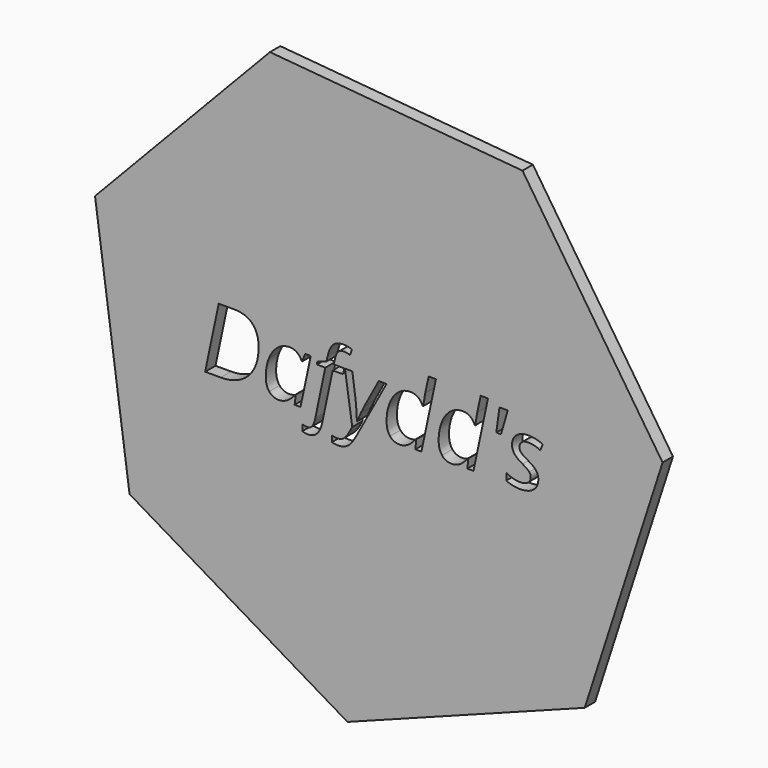
from build123d import *

# Parameters (mm, degrees)
F1_DEPTH = 2


with BuildPart() as f1:
    # F0 (on Front) → F1 (new body)
    with BuildSketch(Plane.XZ):
        Polygon((-34.200053055, -12.194702045), (2.3327218933, 1.5974209622), (14.3274185301, 38.7591425997), (-7.2482143594, 71.3069285135), (-46.1472851467, 74.7316320566), (-73.0780001325, 46.4543816099), (-67.760981646, 7.7685235105), align=None)
        with BuildLine():
            Line((-33.4658228854, 28.0283096267), (-34.5921249688, 35.5825630989))
            Line((-34.5921249688, 35.5825630989), (-33.4528020521, 35.5825630989))
            Line((-33.4528020521, 35.5825630989), (-32.9493298299, 31.8868165712))
            add(Edge.make_bspline(
                [(-32.9493298299, 31.8868165712), (-32.8820555243, 31.4180665712), (-32.8180364271, 30.5066082378)],
                knots=[0, 0, 0, 1, 1, 1], degree=2))
            add(Edge.make_bspline(
                [(-32.8180364271, 30.5066082378), (-32.7540173299, 29.5951499045), (-32.7540173299, 29.03742421)],
                knots=[0, 0, 0, 1, 1, 1], degree=2))
            Line((-32.7540173299, 29.03742421), (-32.712784691, 29.03742421))
            add(Edge.make_bspline(
                [(-32.712784691, 29.03742421), (-32.4762395521, 29.6277019878), (-32.1235919827, 30.394846085)],
                knots=[0, 0, 0, 1, 1, 1], degree=2))
            add(Edge.make_bspline(
                [(-32.1235919827, 30.394846085), (-31.7709444132, 31.1619901823), (-31.6016735799, 31.4527887934)],
                knots=[0, 0, 0, 1, 1, 1], degree=2))
            Line((-31.6016735799, 31.4527887934), (-29.3968124688, 35.5825630989))
            Line((-29.3968124688, 35.5825630989), (-28.1902152465, 35.5825630989))
            Line((-28.1902152465, 35.5825630989), (-32.9102673299, 26.88898671))
            add(Edge.make_bspline(
                [(-32.9102673299, 26.88898671), (-33.5396076077, 25.7214519878), (-34.1570121215, 25.2668078906)],
                knots=[0, 0, 0, 1, 1, 1], degree=2))
            add(Edge.make_bspline(
                [(-34.1570121215, 25.2668078906), (-34.7744166354, 24.8121637934), (-35.642472191, 24.8121637934)],
                knots=[0, 0, 0, 1, 1, 1], degree=2))
            add(Edge.make_bspline(
                [(-35.642472191, 24.8121637934), (-36.130753441, 24.8121637934), (-36.5929930243, 24.95539296)],
                knots=[0, 0, 0, 1, 1, 1], degree=2))
            Line((-36.5929930243, 24.95539296), (-36.5929930243, 25.8711915712))
            add(Edge.make_bspline(
                [(-36.5929930243, 25.8711915712), (-36.1654756632, 25.7496637934), (-35.7032360799, 25.7496637934)],
                knots=[0, 0, 0, 1, 1, 1], degree=2))
            add(Edge.make_bspline(
                [(-35.7032360799, 25.7496637934), (-35.1476805243, 25.7496637934), (-34.7505451077, 26.0914606684)],
                knots=[0, 0, 0, 1, 1, 1], degree=2))
            add(Edge.make_bspline(
                [(-34.7505451077, 26.0914606684), (-34.353409691, 26.4332575434), (-33.9801458021, 27.1060005989)],
                knots=[0, 0, 0, 1, 1, 1], degree=2))
            Line((-33.9801458021, 27.1060005989), (-33.4658228854, 28.0283096267))
        make_face(mode=Mode.SUBTRACT)
        with BuildLine():
            add(Edge.make_bspline(
                [(-48.8575329549, 37.0506620573), (-47.8842256632, 36.0361221267), (-47.8842256632, 34.0981880989)],
                knots=[0, 0, 0, 1, 1, 1], degree=2))
            add(Edge.make_bspline(
                [(-47.8842256632, 34.0981880989), (-47.8842256632, 32.3273547656), (-48.5971162882, 30.97101796)],
                knots=[0, 0, 0, 1, 1, 1], degree=2))
            add(Edge.make_bspline(
                [(-48.5971162882, 30.97101796), (-49.3100069132, 29.6146811545), (-50.6316214965, 28.8822592795)],
                knots=[0, 0, 0, 1, 1, 1], degree=2))
            add(Edge.make_bspline(
                [(-50.6316214965, 28.8822592795), (-51.9532360799, 28.1498374045), (-53.7305798299, 28.1498374045)],
                knots=[0, 0, 0, 1, 1, 1], degree=2))
            Line((-53.7305798299, 28.1498374045), (-56.1177326077, 28.1498374045))
            Line((-56.1177326077, 28.1498374045), (-54.0235485799, 38.0652019878))
            Line((-54.0235485799, 38.0652019878), (-51.7036701077, 38.0652019878))
            add(Edge.make_bspline(
                [(-51.7036701077, 38.0652019878), (-49.8308402465, 38.0652019878), (-48.8575329549, 37.0506620573)],
                knots=[0, 0, 0, 1, 1, 1], degree=2))
        make_face(mode=Mode.SUBTRACT)
        with BuildLine():
            add(Edge.make_bspline(
                [(-44.9751544827, 35.03351796), (-44.1277152465, 35.7192818489), (-43.1164305243, 35.7192818489)],
                knots=[0, 0, 0, 1, 1, 1], degree=2))
            add(Edge.make_bspline(
                [(-43.1164305243, 35.7192818489), (-42.4936006632, 35.7192818489), (-42.0053194132, 35.3829103212)],
                knots=[0, 0, 0, 1, 1, 1], degree=2))
            add(Edge.make_bspline(
                [(-42.0053194132, 35.3829103212), (-41.5170381632, 35.0465387934), (-41.2457708021, 34.4171985156)],
                knots=[0, 0, 0, 1, 1, 1], degree=2))
            Line((-41.2457708021, 34.4171985156), (-41.169815941, 34.4171985156))
            Line((-41.169815941, 34.4171985156), (-40.7162569132, 35.5825630989))
            Line((-40.7162569132, 35.5825630989), (-39.8547117743, 35.5825630989))
            Line((-39.8547117743, 35.5825630989), (-41.4345728854, 28.1498374045))
            Line((-41.4345728854, 28.1498374045), (-42.3373506632, 28.1498374045))
            Line((-42.3373506632, 28.1498374045), (-42.1593992743, 29.5669380989))
            Line((-42.1593992743, 29.5669380989), (-42.2136527465, 29.5669380989))
            add(Edge.make_bspline(
                [(-42.2136527465, 29.5669380989), (-43.4289305243, 28.0131186545), (-44.7722464965, 28.0131186545)],
                knots=[0, 0, 0, 1, 1, 1], degree=2))
            add(Edge.make_bspline(
                [(-44.7722464965, 28.0131186545), (-45.7140867743, 28.0131186545), (-46.2501110799, 28.6847766406)],
                knots=[0, 0, 0, 1, 1, 1], degree=2))
            add(Edge.make_bspline(
                [(-46.2501110799, 28.6847766406), (-46.7861353854, 29.3564346267), (-46.7861353854, 30.5239693489)],
                knots=[0, 0, 0, 1, 1, 1], degree=2))
            add(Edge.make_bspline(
                [(-46.7861353854, 30.5239693489), (-46.7861353854, 31.9345596267), (-46.3043645521, 33.1411568489)],
                knots=[0, 0, 0, 1, 1, 1], degree=2))
            add(Edge.make_bspline(
                [(-46.3043645521, 33.1411568489), (-45.8225937188, 34.3477540712), (-44.9751544827, 35.03351796)],
                knots=[0, 0, 0, 1, 1, 1], degree=2))
        make_face(mode=Mode.SUBTRACT)
        with BuildLine():
            add(Edge.make_bspline(
                [(-38.8629583021, 25.4024415712), (-39.412003441, 24.8121637934), (-40.3082708021, 24.8121637934)],
                knots=[0, 0, 0, 1, 1, 1], degree=2))
            add(Edge.make_bspline(
                [(-40.3082708021, 24.8121637934), (-40.7770208021, 24.8121637934), (-41.1567951077, 24.95539296)],
                knots=[0, 0, 0, 1, 1, 1], degree=2))
            Line((-41.1567951077, 24.95539296), (-41.1567951077, 25.91242421))
            add(Edge.make_bspline(
                [(-41.1567951077, 25.91242421), (-40.7227673299, 25.7626846267), (-40.3972464965, 25.7626846267)],
                knots=[0, 0, 0, 1, 1, 1], degree=2))
            add(Edge.make_bspline(
                [(-40.3972464965, 25.7626846267), (-39.880753441, 25.7626846267), (-39.6029756632, 26.1826065017)],
                knots=[0, 0, 0, 1, 1, 1], degree=2))
            add(Edge.make_bspline(
                [(-39.6029756632, 26.1826065017), (-39.3251978854, 26.6025283767), (-39.1559270521, 27.3837783767)],
                knots=[0, 0, 0, 1, 1, 1], degree=2))
            Line((-39.1559270521, 27.3837783767), (-37.615128441, 34.72101796))
            Line((-37.615128441, 34.72101796), (-38.923722191, 34.72101796))
            Line((-38.923722191, 34.72101796), (-38.8369166354, 35.1767471267))
            Line((-38.8369166354, 35.1767471267), (-37.439347191, 35.6237957378))
            Line((-37.439347191, 35.6237957378), (-37.283097191, 36.3008790712))
            add(Edge.make_bspline(
                [(-37.283097191, 36.3008790712), (-36.970597191, 37.6572158767), (-36.4182968438, 38.21711171)],
                knots=[0, 0, 0, 1, 1, 1], degree=2))
            add(Edge.make_bspline(
                [(-36.4182968438, 38.21711171), (-35.8659964965, 38.7770075434), (-34.7809270521, 38.7770075434)],
                knots=[0, 0, 0, 1, 1, 1], degree=2))
            add(Edge.make_bspline(
                [(-34.7809270521, 38.7770075434), (-34.509659691, 38.7770075434), (-34.1168645521, 38.6988825434)],
                knots=[0, 0, 0, 1, 1, 1], degree=2))
            add(Edge.make_bspline(
                [(-34.1168645521, 38.6988825434), (-33.7240694132, 38.6207575434), (-33.5070555243, 38.5252714323)],
                knots=[0, 0, 0, 1, 1, 1], degree=2))
            Line((-33.5070555243, 38.5252714323), (-33.7978541354, 37.65070546))
            add(Edge.make_bspline(
                [(-33.7978541354, 37.65070546), (-34.3121770521, 37.8481880989), (-34.7266735799, 37.8481880989)],
                knots=[0, 0, 0, 1, 1, 1], degree=2))
            add(Edge.make_bspline(
                [(-34.7266735799, 37.8481880989), (-35.3169513577, 37.8481880989), (-35.632706566, 37.5194120573)],
                knots=[0, 0, 0, 1, 1, 1], degree=2))
            add(Edge.make_bspline(
                [(-35.632706566, 37.5194120573), (-35.9484617743, 37.1906360156), (-36.1437742743, 36.3160700434)],
                knots=[0, 0, 0, 1, 1, 1], degree=2))
            Line((-36.1437742743, 36.3160700434), (-36.3130451077, 35.5825630989))
            Line((-36.3130451077, 35.5825630989), (-34.7006319132, 35.5825630989))
            Line((-34.7006319132, 35.5825630989), (-34.8699027465, 34.72101796))
            Line((-34.8699027465, 34.72101796), (-36.4758055243, 34.72101796))
            Line((-36.4758055243, 34.72101796), (-38.0491562188, 27.2752714323))
            add(Edge.make_bspline(
                [(-38.0491562188, 27.2752714323), (-38.3139131632, 25.9927193489), (-38.8629583021, 25.4024415712)],
                knots=[0, 0, 0, 1, 1, 1], degree=2))
        make_face(mode=Mode.SUBTRACT)
        with BuildLine():
            add(Edge.make_bspline(
                [(-26.3694687188, 35.0465387934), (-25.5383055243, 35.7040908767), (-24.5074895521, 35.7040908767)],
                knots=[0, 0, 0, 1, 1, 1], degree=2))
            add(Edge.make_bspline(
                [(-24.5074895521, 35.7040908767), (-23.1923853854, 35.7040908767), (-22.6021076077, 34.4171985156)],
                knots=[0, 0, 0, 1, 1, 1], degree=2))
            Line((-22.6021076077, 34.4171985156), (-22.5348333021, 34.4171985156))
            add(Edge.make_bspline(
                [(-22.5348333021, 34.4171985156), (-22.419815941, 35.4675457378), (-22.2288437188, 36.2748374045)],
                knots=[0, 0, 0, 1, 1, 1], degree=2))
            Line((-22.2288437188, 36.2748374045), (-21.6993298299, 38.7032228212))
            Line((-21.6993298299, 38.7032228212), (-20.5751978854, 38.7032228212))
            Line((-20.5751978854, 38.7032228212), (-22.8126110799, 28.1498374045))
            Line((-22.8126110799, 28.1498374045), (-23.7544513577, 28.1498374045))
            Line((-23.7544513577, 28.1498374045), (-23.6047117743, 29.5669380989))
            Line((-23.6047117743, 29.5669380989), (-23.6589652465, 29.5669380989))
            add(Edge.make_bspline(
                [(-23.6589652465, 29.5669380989), (-24.3447291354, 28.7205839323), (-24.9415173299, 28.3668512934)],
                knots=[0, 0, 0, 1, 1, 1], degree=2))
            add(Edge.make_bspline(
                [(-24.9415173299, 28.3668512934), (-25.5383055243, 28.0131186545), (-26.1763263577, 28.0131186545)],
                knots=[0, 0, 0, 1, 1, 1], degree=2))
            add(Edge.make_bspline(
                [(-26.1763263577, 28.0131186545), (-27.1181666354, 28.0131186545), (-27.6476805243, 28.6782662239)],
                knots=[0, 0, 0, 1, 1, 1], degree=2))
            add(Edge.make_bspline(
                [(-27.6476805243, 28.6782662239), (-28.1771944132, 29.3434137934), (-28.1771944132, 30.5239693489)],
                knots=[0, 0, 0, 1, 1, 1], degree=2))
            add(Edge.make_bspline(
                [(-28.1771944132, 30.5239693489), (-28.1771944132, 31.9757922656), (-27.6889131632, 33.1823894878)],
                knots=[0, 0, 0, 1, 1, 1], degree=2))
            add(Edge.make_bspline(
                [(-27.6889131632, 33.1823894878), (-27.2006319132, 34.38898671), (-26.3694687188, 35.0465387934)],
                knots=[0, 0, 0, 1, 1, 1], degree=2))
        make_face(mode=Mode.SUBTRACT)
        with BuildLine():
            add(Edge.make_bspline(
                [(-18.3529756632, 35.0465387934), (-17.5218124688, 35.7040908767), (-16.4909964965, 35.7040908767)],
                knots=[0, 0, 0, 1, 1, 1], degree=2))
            add(Edge.make_bspline(
                [(-16.4909964965, 35.7040908767), (-15.1758923299, 35.7040908767), (-14.5856145521, 34.4171985156)],
                knots=[0, 0, 0, 1, 1, 1], degree=2))
            Line((-14.5856145521, 34.4171985156), (-14.5183402465, 34.4171985156))
            add(Edge.make_bspline(
                [(-14.5183402465, 34.4171985156), (-14.4033228854, 35.4675457378), (-14.2123506632, 36.2748374045)],
                knots=[0, 0, 0, 1, 1, 1], degree=2))
            Line((-14.2123506632, 36.2748374045), (-13.6828367743, 38.7032228212))
            Line((-13.6828367743, 38.7032228212), (-12.5587048299, 38.7032228212))
            Line((-12.5587048299, 38.7032228212), (-14.7961180243, 28.1498374045))
            Line((-14.7961180243, 28.1498374045), (-15.7379583021, 28.1498374045))
            Line((-15.7379583021, 28.1498374045), (-15.5882187188, 29.5669380989))
            Line((-15.5882187188, 29.5669380989), (-15.642472191, 29.5669380989))
            add(Edge.make_bspline(
                [(-15.642472191, 29.5669380989), (-16.3282360799, 28.7205839323), (-16.9250242743, 28.3668512934)],
                knots=[0, 0, 0, 1, 1, 1], degree=2))
            add(Edge.make_bspline(
                [(-16.9250242743, 28.3668512934), (-17.5218124688, 28.0131186545), (-18.1598333021, 28.0131186545)],
                knots=[0, 0, 0, 1, 1, 1], degree=2))
            add(Edge.make_bspline(
                [(-18.1598333021, 28.0131186545), (-19.1016735799, 28.0131186545), (-19.6311874688, 28.6782662239)],
                knots=[0, 0, 0, 1, 1, 1], degree=2))
            add(Edge.make_bspline(
                [(-19.6311874688, 28.6782662239), (-20.1607013577, 29.3434137934), (-20.1607013577, 30.5239693489)],
                knots=[0, 0, 0, 1, 1, 1], degree=2))
            add(Edge.make_bspline(
                [(-20.1607013577, 30.5239693489), (-20.1607013577, 31.9757922656), (-19.6724201077, 33.1823894878)],
                knots=[0, 0, 0, 1, 1, 1], degree=2))
            add(Edge.make_bspline(
                [(-19.6724201077, 33.1823894878), (-19.1841388577, 34.38898671), (-18.3529756632, 35.0465387934)],
                knots=[0, 0, 0, 1, 1, 1], degree=2))
        make_face(mode=Mode.SUBTRACT)
        Polygon((-10.7943819132, 38.0652019878), (-9.5183402465, 38.0652019878), (-10.5556666354, 34.4844728212), (-11.2826631632, 34.4844728212), align=None, mode=Mode.SUBTRACT)
        with BuildLine():
            add(Edge.make_bspline(
                [(-4.9675589965, 31.0155058073), (-4.8113089965, 30.6802193489), (-4.8113089965, 30.2592124045)],
                knots=[0, 0, 0, 1, 1, 1], degree=2))
            add(Edge.make_bspline(
                [(-4.8113089965, 30.2592124045), (-4.8113089965, 29.2001846267), (-5.5610919827, 28.6066516406)],
                knots=[0, 0, 0, 1, 1, 1], degree=2))
            add(Edge.make_bspline(
                [(-5.5610919827, 28.6066516406), (-6.3108749688, 28.0131186545), (-7.673722191, 28.0131186545)],
                knots=[0, 0, 0, 1, 1, 1], degree=2))
            add(Edge.make_bspline(
                [(-7.673722191, 28.0131186545), (-8.8195555243, 28.0131186545), (-9.7418645521, 28.4818686545)],
                knots=[0, 0, 0, 1, 1, 1], degree=2))
            Line((-9.7418645521, 28.4818686545), (-9.7418645521, 29.5539172656))
            add(Edge.make_bspline(
                [(-9.7418645521, 29.5539172656), (-9.2666041354, 29.2696290712), (-8.7175589965, 29.1133790712)],
                knots=[0, 0, 0, 1, 1, 1], degree=2))
            add(Edge.make_bspline(
                [(-8.7175589965, 29.1133790712), (-8.1685138577, 28.9571290712), (-7.6997638577, 28.9571290712)],
                knots=[0, 0, 0, 1, 1, 1], degree=2))
            add(Edge.make_bspline(
                [(-7.6997638577, 28.9571290712), (-6.8468992743, 28.9571290712), (-6.4128714965, 29.2956707378)],
                knots=[0, 0, 0, 1, 1, 1], degree=2))
            add(Edge.make_bspline(
                [(-6.4128714965, 29.2956707378), (-5.9788437188, 29.6342124045), (-5.9788437188, 30.1637262934)],
                knots=[0, 0, 0, 1, 1, 1], degree=2))
            add(Edge.make_bspline(
                [(-5.9788437188, 30.1637262934), (-5.9788437188, 30.5500110156), (-6.2153888577, 30.81476796)],
                knots=[0, 0, 0, 1, 1, 1], degree=2))
            add(Edge.make_bspline(
                [(-6.2153888577, 30.81476796), (-6.4519339965, 31.0795249045), (-7.2396944132, 31.5417644878)],
                knots=[0, 0, 0, 1, 1, 1], degree=2))
            add(Edge.make_bspline(
                [(-7.2396944132, 31.5417644878), (-8.1207708021, 32.0365561545), (-8.4875242743, 32.5107315017)],
                knots=[0, 0, 0, 1, 1, 1], degree=2))
            add(Edge.make_bspline(
                [(-8.4875242743, 32.5107315017), (-8.8542777465, 32.9849068489), (-8.8542777465, 33.6359485156)],
                knots=[0, 0, 0, 1, 1, 1], degree=2))
            add(Edge.make_bspline(
                [(-8.8542777465, 33.6359485156), (-8.8542777465, 34.5712783767), (-8.1685138577, 35.1452801128)],
                knots=[0, 0, 0, 1, 1, 1], degree=2))
            add(Edge.make_bspline(
                [(-8.1685138577, 35.1452801128), (-7.4827499688, 35.7192818489), (-6.365128441, 35.7192818489)],
                knots=[0, 0, 0, 1, 1, 1], degree=2))
            add(Edge.make_bspline(
                [(-6.365128441, 35.7192818489), (-5.2041041354, 35.7192818489), (-4.1255451077, 35.2158096267)],
                knots=[0, 0, 0, 1, 1, 1], degree=2))
            Line((-4.1255451077, 35.2158096267), (-4.4922985799, 34.2869901823))
            Line((-4.4922985799, 34.2869901823), (-4.8720728854, 34.4562610156))
            add(Edge.make_bspline(
                [(-4.8720728854, 34.4562610156), (-5.5578367743, 34.7492297656), (-6.365128441, 34.7492297656)],
                knots=[0, 0, 0, 1, 1, 1], degree=2))
            add(Edge.make_bspline(
                [(-6.365128441, 34.7492297656), (-6.9944687188, 34.7492297656), (-7.3547117743, 34.4540908767)],
                knots=[0, 0, 0, 1, 1, 1], degree=2))
            add(Edge.make_bspline(
                [(-7.3547117743, 34.4540908767), (-7.7149548299, 34.1589519878), (-7.7149548299, 33.6902019878)],
                knots=[0, 0, 0, 1, 1, 1], degree=2))
            add(Edge.make_bspline(
                [(-7.7149548299, 33.6902019878), (-7.7149548299, 33.3104276823), (-7.4740694132, 33.0391603212)],
                knots=[0, 0, 0, 1, 1, 1], degree=2))
            add(Edge.make_bspline(
                [(-7.4740694132, 33.0391603212), (-7.2331839965, 32.76789296), (-6.4801458021, 32.3403755989)],
                knots=[0, 0, 0, 1, 1, 1], degree=2))
            add(Edge.make_bspline(
                [(-6.4801458021, 32.3403755989), (-5.7531492743, 31.9345596267), (-5.4384791354, 31.6426759462)],
                knots=[0, 0, 0, 1, 1, 1], degree=2))
            add(Edge.make_bspline(
                [(-5.4384791354, 31.6426759462), (-5.1238089965, 31.3507922656), (-4.9675589965, 31.0155058073)],
                knots=[0, 0, 0, 1, 1, 1], degree=2))
        make_face(mode=Mode.SUBTRACT)
    extrude(amount=F1_DEPTH)


solid = f1.part
